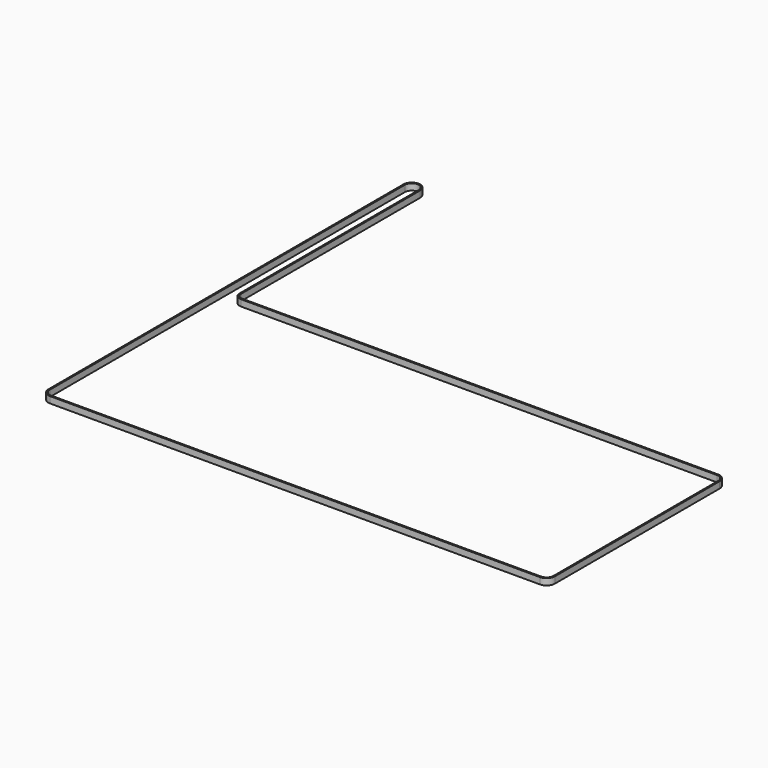
from build123d import *

# Parameters (mm, degrees)
F1_DEPTH = 6


with BuildPart() as f1:
    # F0 (on Top) → F1 (new body)
    with BuildSketch(Plane.XY):
        with BuildLine():
            Line((-187.163409, 51.954773), (-187.163409, 261.304773))
            ThreePointArc((-187.163409, 261.304773), (-194.963409, 269.104773), (-202.763409, 261.304773))
            Line((-202.763409, 261.304773), (-202.763409, -153.395227))
            ThreePointArc((-202.763409, -153.395227), (-200.478842, -158.910659), (-194.963409, -161.195227))
            Line((-194.963409, -161.195227), (262.736591, -161.195227))
            ThreePointArc((262.736591, -161.195227), (268.252024, -158.910659), (270.536591, -153.395227))
            Line((270.536591, -153.395227), (270.536591, 38.954773))
            ThreePointArc((270.536591, 38.954773), (268.252024, 44.470206), (262.736591, 46.754773))
            Line((262.736591, 46.754773), (-181.963409, 46.754773))
            ThreePointArc((-181.963409, 46.754773), (-185.640364, 48.277818), (-187.163409, 51.954773))
        make_face()
        with BuildLine():
            ThreePointArc((-201.463409, 261.304773), (-194.963409, 267.804773), (-188.463409, 261.304773))
            Line((-188.463409, 261.304773), (-188.463409, 51.954773))
            ThreePointArc((-188.463409, 51.954773), (-186.559603, 47.358579), (-181.963409, 45.454773))
            Line((-181.963409, 45.454773), (22.386591, 45.454773))
            Line((22.386591, 45.454773), (262.736591, 45.454773))
            ThreePointArc((262.736591, 45.454773), (267.332785, 43.550968), (269.236591, 38.954773))
            Line((269.236591, 38.954773), (269.236591, -153.395227))
            ThreePointArc((269.236591, -153.395227), (267.332785, -157.991421), (262.736591, -159.895227))
            Line((262.736591, -159.895227), (-194.963409, -159.895227))
            ThreePointArc((-194.963409, -159.895227), (-199.559603, -157.991421), (-201.463409, -153.395227))
            Line((-201.463409, -153.395227), (-201.463409, 261.304773))
        make_face(mode=Mode.SUBTRACT)
    extrude(amount=F1_DEPTH)


solid = f1.part
